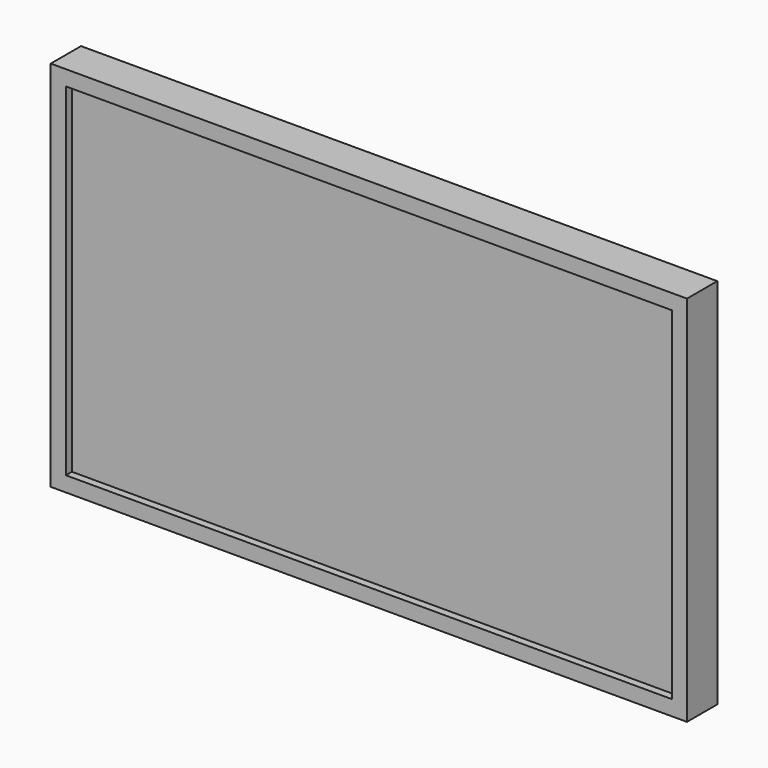
from build123d import *

# Parameters (mm, degrees)
F0_W     = 508
F0_H     = 287.02
F1_DEPTH = 25.4
F2_W     = 533.4
F2_H     = 312.42
F2_W_2   = 508
F2_H_2   = 287.02
F3_DEPTH = 31.75


with BuildPart() as f1:
    # F0 (on Front) → F1 (new body)
    with BuildSketch(Plane.XZ):
        Rectangle(F0_W, F0_H)
    extrude(amount=F1_DEPTH)

    # F2 (on Front) → F3 (join)
    with BuildSketch(Plane.XZ):
        Rectangle(F2_W, F2_H)
        Rectangle(F2_W_2, F2_H_2, mode=Mode.SUBTRACT)
    extrude(amount=F3_DEPTH)


solid = f1.part
